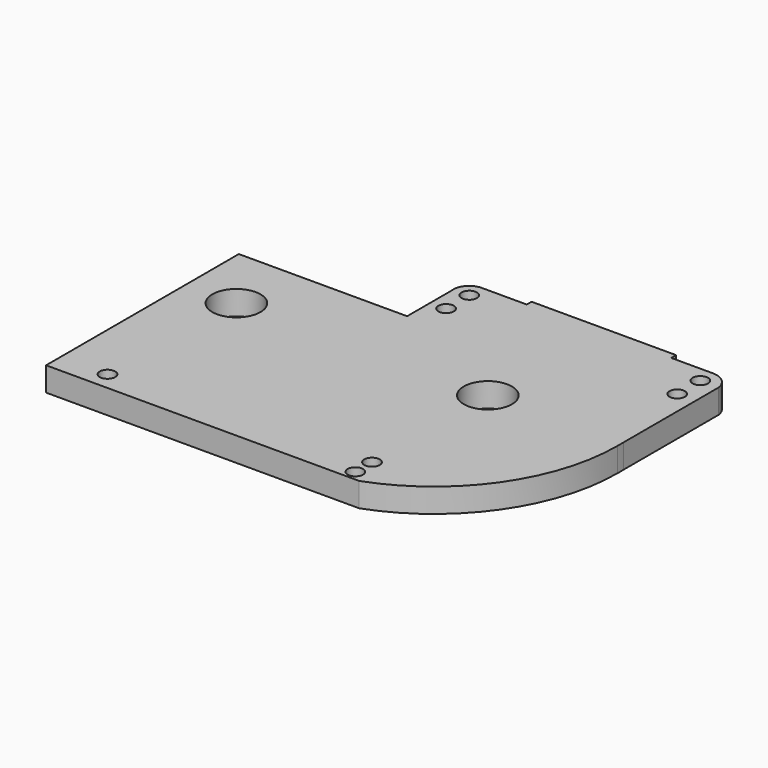
from build123d import *

# Parameters (mm, degrees)
F0_R     = 2.032
F0_R_2   = 2.027946
F0_R_3   = 6.35
F1_DEPTH = 6.35


with BuildPart() as f1:
    # F0 (on Top) → F1 (new body)
    with BuildSketch(Plane.XY):
        with BuildLine():
            Line((-170.272195, -49.641607), (-163.925477, -49.641607))
            ThreePointArc((-163.925477, -49.641607), (-140.909058, -31.963569), (-132.186283, -4.28358))
            Line((-132.186283, -4.28358), (-132.186283, -2.299813))
            Line((-132.186283, -2.299813), (-132.186283, 29.155357))
            ThreePointArc((-132.186283, 29.155357), (-133.837078, 32.141068), (-137.035743, 33.327715))
            Line((-137.035743, 33.327715), (-148.047195, 33.327715))
            Line((-148.047195, 33.327715), (-148.047195, 34.918903))
            Line((-148.047195, 34.918903), (-186.147195, 34.918903))
            Line((-186.147195, 34.918903), (-186.147195, 33.327715))
            Line((-186.147195, 33.327715), (-197.693917, 33.327715))
            Line((-197.693917, 33.327715), (-198.24493, 33.327715))
            ThreePointArc((-198.24493, 33.327715), (-201.203656, 31.805681), (-202.114563, 28.605541))
            Line((-202.114563, 28.605541), (-202.114563, 13.871952))
            Line((-202.114563, 13.871952), (-246.486589, 13.871952))
            Line((-246.486589, 13.871952), (-246.486589, -49.641607))
            Line((-246.486589, -49.641607), (-240.805238, -49.641607))
            Line((-240.805238, -49.641607), (-170.272195, -49.641607))
        make_face()
        with Locations((-234.114588, -44.87283)):
            Circle(F0_R, mode=Mode.SUBTRACT)
        with Locations((-167.098836, -46.955632)):
            Circle(F0_R, mode=Mode.SUBTRACT)
        with Locations((-167.098836, -41.466439)):
            Circle(F0_R_2, mode=Mode.SUBTRACT)
        with Locations((-233.186065, -3.547357)):
            Circle(F0_R_3, mode=Mode.SUBTRACT)
        with Locations((-197.969424, 21.535357)):
            Circle(F0_R, mode=Mode.SUBTRACT)
        with Locations((-197.969424, 29.155357)):
            Circle(F0_R, mode=Mode.SUBTRACT)
        with Locations((-167.097195, -3.291697)):
            Circle(F0_R_3, mode=Mode.SUBTRACT)
        with Locations((-137.035743, 21.535357)):
            Circle(F0_R, mode=Mode.SUBTRACT)
        with Locations((-137.035743, 29.155357)):
            Circle(F0_R, mode=Mode.SUBTRACT)
        with BuildLine():
            Line((-132.186283, -2.299813), (-132.186283, -4.28358))
            ThreePointArc((-132.186283, -4.28358), (-132.172195, -3.291697), (-132.186283, -2.299813))
        make_face()
        with BuildLine():
            ThreePointArc((-197.693917, 33.327715), (-197.969424, 33.336801), (-198.24493, 33.327715))
            Line((-198.24493, 33.327715), (-197.693917, 33.327715))
        make_face()
    extrude(amount=F1_DEPTH)


solid = f1.part
